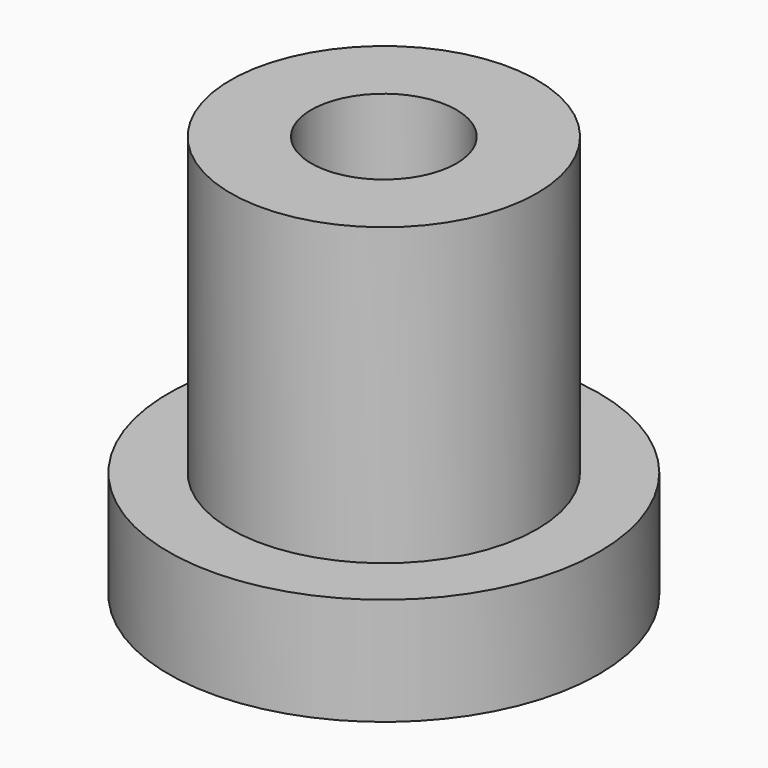
from build123d import *

# Parameters (mm, degrees)
F0_R     = 1.4478
F1_DEPTH = 3.81
F2_R     = 2.032
F3_DEPTH = 1.016
F4_R     = 1.524
F5_DEPTH = 0.508
F6_R     = 0.6858
F7_DEPTH = 2.032


with BuildPart() as f1:
    # F0 (on Top) → F1 (new body)
    with BuildSketch(Plane.XY):
        Circle(F0_R)
    extrude(amount=F1_DEPTH)

    # F2 (on Top) → F3 (join)
    with BuildSketch(Plane.XY):
        Circle(F2_R)
    extrude(amount=F3_DEPTH)

    # F4 (on face) → F5 (cut)
    with BuildSketch(Plane(origin=(0, 0, 0), x_dir=(1, 0, 0), z_dir=(0, 0, -1))):
        Circle(F4_R)
    extrude(amount=-F5_DEPTH, mode=Mode.SUBTRACT)

    # F6 (on face) → F7 (cut)
    with BuildSketch(Plane.XY.offset(3.81)):
        Circle(F6_R)
    extrude(amount=-F7_DEPTH, mode=Mode.SUBTRACT)


solid = f1.part
